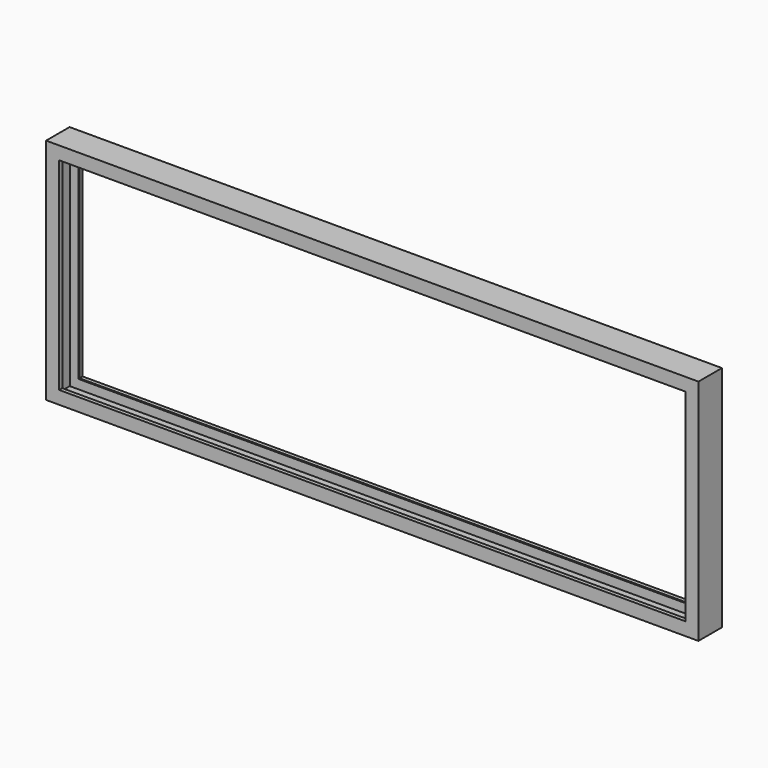
from build123d import *


with BuildPart() as f2:
    # F2: sweep along a path in F0
    with BuildLine(Plane.XZ) as f2_path:
        Line((0, 0), (2000, 0))
        Line((2000, 0), (2000, 700))
        Line((2000, 700), (0, 700))
        Line((0, 700), (0, 0))
    # F1 (on Right) → F2 (sweep)
    with BuildSketch(Plane.YZ):
        Polygon((-45, 0), (0, 0), (45, 0), (45, 40), (33, 40), (33, 37), (42, 37), (42, 3), (0, 3), (-42, 3), (-42, 37), (-33, 37), (-33, 40), (-45, 40), align=None)
    sweep(path=f2_path.line, transition=Transition.RIGHT)


solid = f2.part
